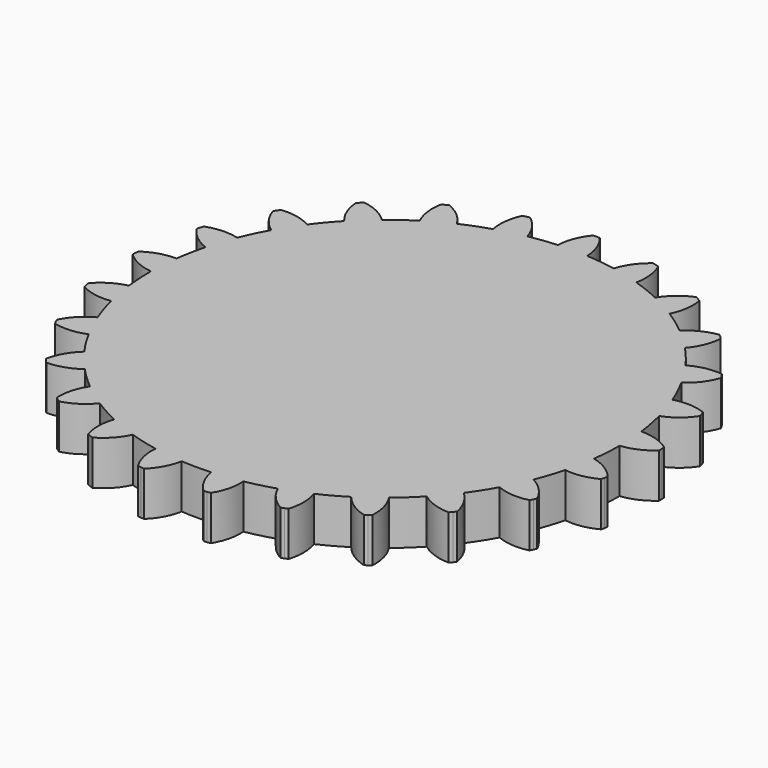
from build123d import *

# Parameters (mm, degrees)
F1_DEPTH = 3


with BuildPart() as f1:
    # F0 (on Top) → F1 (new body)
    with BuildSketch(Plane.XY):
        with BuildLine():
            ThreePointArc((15.913406, -0.028068), (15.913425, -0.014034), (15.913431, 0))
            ThreePointArc((15.913431, 0), (15.906009, 0.485973), (15.883749, 0.971492))
            ThreePointArc((15.883749, 0.971492), (15.845383, 1.470079), (15.791369, 1.967216))
            ThreePointArc((15.791369, 1.967216), (15.636311, 2.956867), (15.419294, 3.934802))
            ThreePointArc((15.419294, 3.934802), (15.288049, 4.417334), (15.141708, 4.895503))
            ThreePointArc((15.141708, 4.895503), (14.980416, 5.368838), (14.804331, 5.836872))
            ThreePointArc((14.804331, 5.836872), (14.40776, 6.756755), (13.954098, 7.649865))
            ThreePointArc((13.954098, 7.649865), (13.70685, 8.084526), (13.446066, 8.511203))
            ThreePointArc((13.446066, 8.511203), (13.172006, 8.929476), (12.884938, 9.338932))
            ThreePointArc((12.884938, 9.338932), (12.27183, 10.131114), (11.610095, 10.883151))
            ThreePointArc((11.610095, 10.883151), (11.262414, 11.242567), (10.903612, 11.590881))
            ThreePointArc((10.903612, 11.590881), (10.534043, 11.92775), (10.154072, 12.25284))
            ThreePointArc((10.154072, 12.25284), (9.36304, 12.86743), (8.534906, 13.431033))
            ThreePointArc((8.534906, 13.431033), (8.108689, 13.692569), (7.674465, 13.940583))
            ThreePointArc((7.674465, 13.940583), (7.232663, 14.174832), (6.783719, 14.395084))
            ThreePointArc((6.783719, 14.395084), (5.86458, 14.793376), (4.922203, 15.13305))
            ThreePointArc((4.922203, 15.13305), (4.444292, 15.280234), (3.961993, 15.412329))
            ThreePointArc((3.961993, 15.412329), (3.475781, 15.529206), (2.986137, 15.630747))
            ThreePointArc((2.986137, 15.630747), (1.996778, 15.787659), (0.999506, 15.882011))
            ThreePointArc((0.999506, 15.882011), (0.5, 15.905574), (0, 15.913431))
            ThreePointArc((0, 15.913431), (-0.5, 15.905574), (-0.999506, 15.882011))
            ThreePointArc((-0.999506, 15.882011), (-1.939359, 15.794815), (-2.87239, 15.65205))
            ThreePointArc((-2.87239, 15.65205), (-3.362759, 15.554071), (-3.849807, 15.440734))
            ThreePointArc((-3.849807, 15.440734), (-4.333054, 15.31215), (-4.812023, 15.168445))
            ThreePointArc((-4.812023, 15.168445), (-5.756845, 14.835633), (-6.678857, 14.444035))
            ThreePointArc((-6.678857, 14.444035), (-7.129391, 14.227054), (-7.572885, 13.996025))
            ThreePointArc((-7.572885, 13.996025), (-8.008901, 13.751174), (-8.437008, 13.492745))
            ThreePointArc((-8.437008, 13.492745), (-9.269219, 12.93518), (-10.0647, 12.326358))
            ThreePointArc((-10.0647, 12.326358), (-10.447024, 12.00404), (-10.819033, 11.669867))
            ThreePointArc((-10.819033, 11.669867), (-11.180359, 11.324171), (-11.530644, 10.967293))
            ThreePointArc((-11.530644, 10.967293), (-12.197831, 10.220088), (-12.816683, 9.432386))
            ThreePointArc((-12.816683, 9.432386), (-13.106721, 9.025029), (-13.383816, 8.60876))
            ThreePointArc((-13.383816, 8.60876), (-13.647695, 8.18399), (-13.898098, 7.751139))
            ThreePointArc((-13.898098, 7.751139), (-14.358243, 6.861352), (-14.761493, 5.944377))
            ThreePointArc((-14.761493, 5.944377), (-14.940977, 5.477636), (-15.105707, 5.005486))
            ThreePointArc((-15.105707, 5.005486), (-15.255521, 4.528394), (-15.390272, 4.046829))
            ThreePointArc((-15.390272, 4.046829), (-15.614395, 3.070498), (-15.776646, 2.082001))
            ThreePointArc((-15.776646, 2.082001), (-15.834273, 1.58527), (-15.876264, 1.086975))
            ThreePointArc((-15.876264, 1.086975), (-15.902579, 0.587606), (-15.91319, 0.087657))
            ThreePointArc((-15.91319, 0.087657), (-15.887177, -0.91373), (-15.798211, -1.911497))
            ThreePointArc((-15.798211, -1.911497), (-15.730351, -2.406933), (-15.646959, -2.899992))
            ThreePointArc((-15.646959, -2.899992), (-15.548116, -3.390188), (-15.43392, -3.877036))
            ThreePointArc((-15.43392, -3.877036), (-15.159409, -4.840414), (-14.824829, -5.784612))
            ThreePointArc((-14.824829, -5.784612), (-14.635757, -6.247552), (-14.432233, -6.704323))
            ThreePointArc((-14.432233, -6.704323), (-14.214457, -7.154473), (-13.982646, -7.597559))
            ThreePointArc((-13.982646, -7.597559), (-13.476925, -8.462256), (-12.917802, -9.293421))
            ThreePointArc((-12.917802, -9.293421), (-12.619425, -9.69471), (-12.308587, -10.086425))
            ThreePointArc((-12.308587, -10.086425), (-11.985594, -10.468181), (-11.650766, -10.8396))
            ThreePointArc((-11.650766, -10.8396), (-10.945686, -11.551158), (-10.197233, -12.216944))
            ThreePointArc((-10.197233, -12.216944), (-9.808342, -12.53131), (-9.409765, -12.833301))
            ThreePointArc((-9.409765, -12.833301), (-9.001897, -13.122619), (-8.58514, -13.39898))
            ThreePointArc((-8.58514, -13.39898), (-7.725104, -13.912586), (-6.834457, -14.371064))
            ThreePointArc((-6.834457, -14.371064), (-6.379544, -14.578707), (-5.918331, -14.771954))
            ThreePointArc((-5.918331, -14.771954), (-5.451275, -14.950615), (-4.978835, -15.114513))
            ThreePointArc((-4.978835, -15.114513), (-4.018007, -15.397821), (-3.041258, -15.620116))
            ThreePointArc((-3.041258, -15.620116), (-2.548973, -15.70796), (-2.05417, -15.780294))
            ThreePointArc((-2.05417, -15.780294), (-1.557339, -15.837045), (-1.05897, -15.878157))
            ThreePointArc((-1.05897, -15.878157), (-0.057863, -15.913326), (0.943474, -15.885438))
            ThreePointArc((0.943474, -15.885438), (1.442129, -15.847951), (1.939359, -15.794815))
            ThreePointArc((1.939359, -15.794815), (2.434675, -15.726082), (2.927586, -15.64182))
            ThreePointArc((2.927586, -15.64182), (3.905926, -15.426634), (4.868788, -15.15032))
            ThreePointArc((4.868788, -15.15032), (5.342407, -14.989862), (5.810751, -14.814603))
            ThreePointArc((5.810751, -14.814603), (6.273357, -14.624715), (6.729768, -14.420385))
            ThreePointArc((6.729768, -14.420385), (7.623725, -13.968396), (8.487474, -13.461058))
            ThreePointArc((8.487474, -13.461058), (8.906229, -13.187735), (9.316191, -12.90139))
            ThreePointArc((9.316191, -12.90139), (9.716953, -12.602306), (10.10812, -12.290777))
            ThreePointArc((10.10812, -12.290777), (10.861395, -11.630451), (11.571631, -10.924039))
            ThreePointArc((11.571631, -10.924039), (11.909151, -10.555065), (12.234911, -10.175668))
            ThreePointArc((12.234911, -10.175668), (12.54859, -9.786223), (12.849878, -9.387115))
            ThreePointArc((12.849878, -9.387115), (13.41503, -8.560038), (13.927025, -7.699042))
            ThreePointArc((13.927025, -7.699042), (14.162053, -7.257654), (14.383096, -6.809099))
            ThreePointArc((14.383096, -6.809099), (14.589937, -6.35382), (14.78237, -5.892267))
            ThreePointArc((14.78237, -5.892267), (15.123808, -4.950527), (15.405317, -3.989171))
            ThreePointArc((15.405317, -3.989171), (15.523051, -3.503167), (15.625456, -3.013703))
            ThreePointArc((15.625456, -3.013703), (15.712432, -2.521263), (15.783892, -2.026333))
            ThreePointArc((15.783892, -2.026333), (15.880112, -1.02924), (15.913406, -0.028068))
        make_face()
        with BuildLine():
            ThreePointArc((15.883749, 0.971492), (15.906009, 0.485973), (15.913431, 0))
            ThreePointArc((15.913431, 0), (15.913425, -0.014034), (15.913406, -0.028068))
            ThreePointArc((15.913406, -0.028068), (16.971075, 0.260319), (17.885677, 0.864747))
            Line((17.885677, 0.864747), (17.88181, 1.093698))
            Line((17.88181, 1.093698), (15.883749, 0.971492))
        make_face()
        with BuildLine():
            ThreePointArc((15.791369, 1.967216), (15.845383, 1.470079), (15.883749, 0.971492))
            Line((15.883749, 0.971492), (17.88181, 1.093698))
            Line((17.88181, 1.093698), (17.857746, 1.321414))
            ThreePointArc((17.857746, 1.321414), (16.8763, 1.809875), (15.791369, 1.967216))
        make_face()
        with BuildLine():
            ThreePointArc((17.624414, -3.166268), (16.795486, -2.448837), (15.783892, -2.026333))
            ThreePointArc((15.783892, -2.026333), (15.712432, -2.521263), (15.625456, -3.013703))
            Line((15.625456, -3.013703), (17.591026, -3.392805))
            Line((17.591026, -3.392805), (17.624414, -3.166268))
        make_face()
        with BuildLine():
            ThreePointArc((15.141708, 4.895503), (15.288049, 4.417334), (15.419294, 3.934802))
            ThreePointArc((15.419294, 3.934802), (16.371856, 4.477438), (17.107173, 5.290543))
            Line((17.107173, 5.290543), (17.046426, 5.511322))
            Line((17.046426, 5.511322), (15.141708, 4.895503))
        make_face()
        with BuildLine():
            Line((17.591026, -3.392805), (15.625456, -3.013703))
            ThreePointArc((15.625456, -3.013703), (15.523051, -3.503167), (15.405317, -3.989171))
            ThreePointArc((15.405317, -3.989171), (16.501481, -3.973194), (17.537768, -3.615509))
            Line((17.537768, -3.615509), (17.591026, -3.392805))
        make_face()
        with BuildLine():
            ThreePointArc((14.804331, 5.836872), (14.980416, 5.368838), (15.141708, 4.895503))
            Line((15.141708, 4.895503), (17.046426, 5.511322))
            Line((17.046426, 5.511322), (16.966425, 5.725876))
            ThreePointArc((16.966425, 5.725876), (15.894271, 5.954603), (14.804331, 5.836872))
        make_face()
        with BuildLine():
            ThreePointArc((16.281124, -7.454544), (15.656918, -6.553324), (14.78237, -5.892267))
            ThreePointArc((14.78237, -5.892267), (14.589937, -6.35382), (14.383096, -6.809099))
            Line((14.383096, -6.809099), (16.192386, -7.665634))
            Line((16.192386, -7.665634), (16.281124, -7.454544))
        make_face()
        with BuildLine():
            ThreePointArc((13.446066, 8.511203), (13.70685, 8.084526), (13.954098, 7.649865))
            ThreePointArc((13.954098, 7.649865), (14.741564, 8.412575), (15.251287, 9.383148))
            Line((15.251287, 9.383148), (15.137485, 9.581851))
            Line((15.137485, 9.581851), (13.446066, 8.511203))
        make_face()
        with BuildLine():
            Line((16.192386, -7.665634), (14.383096, -6.809099))
            ThreePointArc((14.383096, -6.809099), (14.162053, -7.257654), (13.927025, -7.699042))
            ThreePointArc((13.927025, -7.699042), (14.992649, -7.956482), (16.085358, -7.868066))
            Line((16.085358, -7.868066), (16.192386, -7.665634))
        make_face()
        with BuildLine():
            ThreePointArc((12.884938, 9.338932), (13.172006, 8.929476), (13.446066, 8.511203))
            Line((13.446066, 8.511203), (15.137485, 9.581851))
            Line((15.137485, 9.581851), (15.006584, 9.769731))
            ThreePointArc((15.006584, 9.769731), (13.911245, 9.72432), (12.884938, 9.338932))
        make_face()
        with BuildLine():
            ThreePointArc((13.912474, -11.273344), (13.532302, -10.245093), (12.849878, -9.387115))
            ThreePointArc((12.849878, -9.387115), (12.54859, -9.786223), (12.234911, -10.175668))
            Line((12.234911, -10.175668), (13.773975, -11.455694))
            Line((13.773975, -11.455694), (13.912474, -11.273344))
        make_face()
        with BuildLine():
            ThreePointArc((10.903612, 11.590881), (11.262414, 11.242567), (11.610095, 10.883151))
            ThreePointArc((11.610095, 10.883151), (12.182872, 11.817901), (12.434898, 12.884818))
            Line((12.434898, 12.884818), (12.275208, 13.04893))
            Line((12.275208, 13.04893), (10.903612, 11.590881))
        make_face()
        with BuildLine():
            Line((13.773975, -11.455694), (12.234911, -10.175668))
            ThreePointArc((12.234911, -10.175668), (11.909151, -10.555065), (11.571631, -10.924039))
            ThreePointArc((11.571631, -10.924039), (12.539604, -11.438683), (13.619918, -11.625105))
            Line((13.619918, -11.625105), (13.773975, -11.455694))
        make_face()
        with BuildLine():
            ThreePointArc((10.154072, 12.25284), (10.534043, 11.92775), (10.903612, 11.590881))
            Line((10.903612, 11.590881), (12.275208, 13.04893))
            Line((12.275208, 13.04893), (12.101653, 13.198304))
            ThreePointArc((12.101653, 13.198304), (11.052111, 12.881614), (10.154072, 12.25284))
        make_face()
        with BuildLine():
            ThreePointArc((10.667639, -14.382166), (10.555443, -13.291643), (10.10812, -12.290777))
            ThreePointArc((10.10812, -12.290777), (9.716953, -12.602306), (9.316191, -12.90139))
            Line((9.316191, -12.90139), (10.488101, -14.524292))
            Line((10.488101, -14.524292), (10.667639, -14.382166))
        make_face()
        with BuildLine():
            ThreePointArc((7.674465, 13.940583), (8.108689, 13.692569), (8.534906, 13.431033))
            ThreePointArc((8.534906, 13.431033), (8.85692, 14.478954), (8.835378, 15.575022))
            Line((8.835378, 15.575022), (8.639858, 15.694208))
            Line((8.639858, 15.694208), (7.674465, 13.940583))
        make_face()
        with BuildLine():
            Line((10.488101, -14.524292), (9.316191, -12.90139))
            ThreePointArc((9.316191, -12.90139), (8.906229, -13.187735), (8.487474, -13.461058))
            ThreePointArc((8.487474, -13.461058), (9.296835, -14.200493), (10.296716, -14.650012))
            Line((10.296716, -14.650012), (10.488101, -14.524292))
        make_face()
        with BuildLine():
            ThreePointArc((6.783719, 14.395084), (7.232663, 14.174832), (7.674465, 13.940583))
            Line((7.674465, 13.940583), (8.639858, 15.694208))
            Line((8.639858, 15.694208), (8.434578, 15.795667))
            ThreePointArc((8.434578, 15.795667), (7.496933, 15.227644), (6.783719, 14.395084))
        make_face()
        with BuildLine():
            ThreePointArc((6.750972, -16.585222), (6.913818, -15.501105), (6.729768, -14.420385))
            ThreePointArc((6.729768, -14.420385), (6.273357, -14.624715), (5.810751, -14.814603))
            Line((5.810751, -14.814603), (6.541702, -16.678173))
            Line((6.541702, -16.678173), (6.750972, -16.585222))
        make_face()
        with BuildLine():
            ThreePointArc((3.961993, 15.412329), (4.444292, 15.280234), (4.922203, 15.13305))
            ThreePointArc((4.922203, 15.13305), (4.973174, 16.228145), (4.679421, 17.284335))
            Line((4.679421, 17.284335), (4.460383, 17.351089))
            Line((4.460383, 17.351089), (3.961993, 15.412329))
        make_face()
        with BuildLine():
            Line((6.541702, -16.678173), (5.810751, -14.814603))
            ThreePointArc((5.810751, -14.814603), (5.342407, -14.989862), (4.868788, -15.15032))
            ThreePointArc((4.868788, -15.15032), (5.468565, -16.067979), (6.325043, -16.752285))
            Line((6.325043, -16.752285), (6.541702, -16.678173))
        make_face()
        with BuildLine():
            ThreePointArc((2.986137, 15.630747), (3.475781, 15.529206), (3.961993, 15.412329))
            Line((3.961993, 15.412329), (4.460383, 17.351089))
            Line((4.460383, 17.351089), (4.236307, 17.398245))
            ThreePointArc((4.236307, 17.398245), (3.469609, 16.614661), (2.986137, 15.630747))
        make_face()
        with BuildLine():
            ThreePointArc((2.409139, -17.743767), (2.836772, -16.734332), (2.927586, -15.64182))
            ThreePointArc((2.927586, -15.64182), (2.434675, -15.726082), (1.939359, -15.794815))
            Line((1.939359, -15.794815), (2.183317, -17.781689))
            Line((2.183317, -17.781689), (2.409139, -17.743767))
        make_face()
        with BuildLine():
            ThreePointArc((0, 15.913431), (0.5, 15.905574), (0.999506, 15.882011))
            ThreePointArc((0.999506, 15.882011), (0.776225, 16.955312), (0.22876, 17.905108))
            Line((0.22876, 17.905108), (0, 17.915226))
            Line((0, 17.915226), (0, 15.913431))
        make_face()
        with BuildLine():
            Line((2.183317, -17.781689), (1.939359, -15.794815))
            ThreePointArc((1.939359, -15.794815), (1.442129, -15.847951), (0.943474, -15.885438))
            ThreePointArc((0.943474, -15.885438), (1.295893, -16.923528), (1.955029, -17.799525))
            Line((1.955029, -17.799525), (2.183317, -17.781689))
        make_face()
        with BuildLine():
            ThreePointArc((-0.999506, 15.882011), (-0.5, 15.905574), (0, 15.913431))
            Line((0, 15.913431), (0, 17.915226))
            Line((0, 17.915226), (-0.22876, 17.905108))
            ThreePointArc((-0.22876, 17.905108), (-0.776225, 16.955312), (-0.999506, 15.882011))
        make_face()
        with BuildLine():
            ThreePointArc((-2.084417, -17.784837), (-1.418929, -16.913657), (-1.05897, -15.878157))
            ThreePointArc((-1.05897, -15.878157), (-1.557339, -15.837045), (-2.05417, -15.780294))
            Line((-2.05417, -15.780294), (-2.31257, -17.765341))
            Line((-2.31257, -17.765341), (-2.084417, -17.784837))
        make_face()
        with BuildLine():
            ThreePointArc((-3.849807, 15.440734), (-3.362759, 15.554071), (-2.87239, 15.65205))
            ThreePointArc((-2.87239, 15.65205), (-3.348693, 16.639453), (-4.109672, 17.428592))
            Line((-4.109672, 17.428592), (-4.334085, 17.383067))
            Line((-4.334085, 17.383067), (-3.849807, 15.440734))
        make_face()
        with BuildLine():
            Line((-2.31257, -17.765341), (-2.05417, -15.780294))
            ThreePointArc((-2.05417, -15.780294), (-2.548973, -15.70796), (-3.041258, -15.620116))
            ThreePointArc((-3.041258, -15.620116), (-2.958392, -16.71326), (-2.53811, -17.725778))
            Line((-2.53811, -17.725778), (-2.31257, -17.765341))
        make_face()
        with BuildLine():
            ThreePointArc((-4.812023, 15.168445), (-4.333054, 15.31215), (-3.849807, 15.440734))
            Line((-3.849807, 15.440734), (-4.334085, 17.383067))
            Line((-4.334085, 17.383067), (-4.553603, 17.317908))
            ThreePointArc((-4.553603, 17.317908), (-4.855029, 16.263881), (-4.812023, 15.168445))
        make_face()
        with BuildLine():
            ThreePointArc((-6.446701, -16.705845), (-5.585269, -16.027786), (-4.978835, -15.114513))
            ThreePointArc((-4.978835, -15.114513), (-5.451275, -14.950615), (-5.918331, -14.771954))
            Line((-5.918331, -14.771954), (-6.662815, -16.63016))
            Line((-6.662815, -16.63016), (-6.446701, -16.705845))
        make_face()
        with BuildLine():
            ThreePointArc((-7.572885, 13.996025), (-7.129391, 14.227054), (-6.678857, 14.444035))
            ThreePointArc((-6.678857, 14.444035), (-7.385997, 15.28176), (-8.319487, 15.856587))
            Line((-8.319487, 15.856587), (-8.525499, 15.756624))
            Line((-8.525499, 15.756624), (-7.572885, 13.996025))
        make_face()
        with BuildLine():
            Line((-6.662815, -16.63016), (-5.918331, -14.771954))
            ThreePointArc((-5.918331, -14.771954), (-6.379544, -14.578707), (-6.834457, -14.371064))
            ThreePointArc((-6.834457, -14.371064), (-7.026362, -15.450417), (-6.871403, -16.53569))
            Line((-6.871403, -16.53569), (-6.662815, -16.63016))
        make_face()
        with BuildLine():
            ThreePointArc((-8.437008, 13.492745), (-8.008901, 13.751174), (-7.572885, 13.996025))
            Line((-7.572885, 13.996025), (-8.525499, 15.756624))
            Line((-8.525499, 15.756624), (-8.721881, 15.638862))
            ThreePointArc((-8.721881, 15.638862), (-8.751393, 14.54298), (-8.437008, 13.492745))
        make_face()
        with BuildLine():
            ThreePointArc((-10.40298, -14.574746), (-9.399857, -14.13251), (-8.58514, -13.39898))
            ThreePointArc((-8.58514, -13.39898), (-9.001897, -13.122619), (-9.409765, -12.833301))
            Line((-9.409765, -12.833301), (-10.593446, -14.447637))
            Line((-10.593446, -14.447637), (-10.40298, -14.574746))
        make_face()
        with BuildLine():
            ThreePointArc((-10.819033, 11.669867), (-10.447024, 12.00404), (-10.0647, 12.326358))
            ThreePointArc((-10.0647, 12.326358), (-10.958142, 12.961646), (-12.005353, 13.285959))
            Line((-12.005353, 13.285959), (-12.17999, 13.137852))
            Line((-12.17999, 13.137852), (-10.819033, 11.669867))
        make_face()
        with BuildLine():
            Line((-10.593446, -14.447637), (-9.409765, -12.833301))
            ThreePointArc((-9.409765, -12.833301), (-9.808342, -12.53131), (-10.197233, -12.216944))
            ThreePointArc((-10.197233, -12.216944), (-10.651823, -13.21453), (-10.771946, -14.304209))
            Line((-10.771946, -14.304209), (-10.593446, -14.447637))
        make_face()
        with BuildLine():
            ThreePointArc((-11.530644, 10.967293), (-11.180359, 11.324171), (-10.819033, 11.669867))
            Line((-10.819033, 11.669867), (-12.17999, 13.137852))
            Line((-12.17999, 13.137852), (-12.340869, 12.974906))
            ThreePointArc((-12.340869, 12.974906), (-12.096608, 11.906184), (-11.530644, 10.967293))
        make_face()
        with BuildLine():
            ThreePointArc((-13.704097, -11.525752), (-12.622457, -11.34719), (-11.650766, -10.8396))
            ThreePointArc((-11.650766, -10.8396), (-11.985594, -10.468181), (-12.308587, -10.086425))
            Line((-12.308587, -10.086425), (-13.856918, -11.355225))
            Line((-13.856918, -11.355225), (-13.704097, -11.525752))
        make_face()
        with BuildLine():
            ThreePointArc((-13.383816, 8.60876), (-13.106721, 9.025029), (-12.816683, 9.432386))
            ThreePointArc((-12.816683, 9.432386), (-13.840161, 9.825227), (-14.935141, 9.878603))
            Line((-14.935141, 9.878603), (-15.067404, 9.69168))
            Line((-15.067404, 9.69168), (-13.383816, 8.60876))
        make_face()
        with BuildLine():
            Line((-13.856918, -11.355225), (-12.308587, -10.086425))
            ThreePointArc((-12.308587, -10.086425), (-12.619425, -9.69471), (-12.917802, -9.293421))
            ThreePointArc((-12.917802, -9.293421), (-13.606448, -10.146414), (-13.994088, -11.171872))
            Line((-13.994088, -11.171872), (-13.856918, -11.355225))
        make_face()
        with BuildLine():
            ThreePointArc((-13.898098, 7.751139), (-13.647695, 8.18399), (-13.383816, 8.60876))
            Line((-13.383816, 8.60876), (-15.067404, 9.69168))
            Line((-15.067404, 9.69168), (-15.182648, 9.49381))
            ThreePointArc((-15.182648, 9.49381), (-14.679997, 8.519555), (-13.898098, 7.751139))
        make_face()
        with BuildLine():
            ThreePointArc((-16.142151, -7.750883), (-15.050114, -7.847243), (-13.982646, -7.597559))
            ThreePointArc((-13.982646, -7.597559), (-14.214457, -7.154473), (-14.432233, -6.704323))
            Line((-14.432233, -6.704323), (-16.247704, -7.547678))
            Line((-16.247704, -7.547678), (-16.142151, -7.750883))
        make_face()
        with BuildLine():
            ThreePointArc((-15.105707, 5.005486), (-14.940977, 5.477636), (-14.761493, 5.944377))
            ThreePointArc((-14.761493, 5.944377), (-15.850548, 6.070031), (-16.924337, 5.849107))
            Line((-16.924337, 5.849107), (-17.005896, 5.63514))
            Line((-17.005896, 5.63514), (-15.105707, 5.005486))
        make_face()
        with BuildLine():
            Line((-16.247704, -7.547678), (-14.432233, -6.704323))
            ThreePointArc((-14.432233, -6.704323), (-14.635757, -6.247552), (-14.824829, -5.784612))
            ThreePointArc((-14.824829, -5.784612), (-15.704161, -6.439291), (-16.334904, -7.335948))
            Line((-16.334904, -7.335948), (-16.247704, -7.547678))
        make_face()
        with BuildLine():
            ThreePointArc((-15.390272, 4.046829), (-15.255521, 4.528394), (-15.105707, 5.005486))
            Line((-15.105707, 5.005486), (-17.005896, 5.63514))
            Line((-17.005896, 5.63514), (-17.068247, 5.414809))
            ThreePointArc((-17.068247, 5.414809), (-16.338863, 4.596378), (-15.390272, 4.046829))
        make_face()
        with BuildLine():
            ThreePointArc((-17.563597, -3.487877), (-16.529938, -3.853088), (-15.43392, -3.877036))
            ThreePointArc((-15.43392, -3.877036), (-15.548116, -3.390188), (-15.646959, -2.899992))
            Line((-15.646959, -2.899992), (-17.615234, -3.264791))
            Line((-17.615234, -3.264791), (-17.563597, -3.487877))
        make_face()
        with BuildLine():
            ThreePointArc((-15.876264, 1.086975), (-15.834273, 1.58527), (-15.776646, 2.082001))
            ThreePointArc((-15.776646, 2.082001), (-16.862692, 1.932554), (-17.847664, 1.451244))
            Line((-17.847664, 1.451244), (-17.873384, 1.223709))
            Line((-17.873384, 1.223709), (-15.876264, 1.086975))
        make_face()
        with BuildLine():
            Line((-17.615234, -3.264791), (-15.646959, -2.899992))
            ThreePointArc((-15.646959, -2.899992), (-15.730351, -2.406933), (-15.798211, -1.911497))
            ThreePointArc((-15.798211, -1.911497), (-16.81285, -2.326633), (-17.646974, -3.038017))
            Line((-17.646974, -3.038017), (-17.615234, -3.264791))
        make_face()
        with BuildLine():
            ThreePointArc((-15.91319, 0.087657), (-15.902579, 0.587606), (-15.876264, 1.086975))
            Line((-15.876264, 1.086975), (-17.873384, 1.223709))
            Line((-17.873384, 1.223709), (-17.878915, 0.994791))
            ThreePointArc((-17.878915, 0.994791), (-16.968733, 0.383729), (-15.91319, 0.087657))
        make_face()
    extrude(amount=F1_DEPTH)


solid = f1.part
